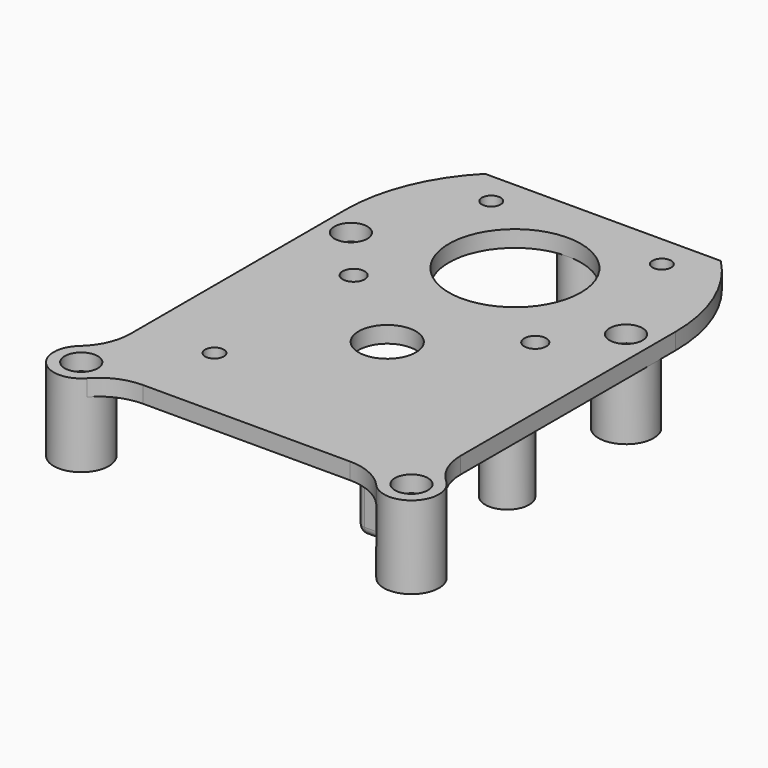
from build123d import *

# Parameters (mm, degrees)
CYLINDER054_R               = 3
CYLINDER054_DEPTH           = 3
CYLINDER053_R               = 3
CYLINDER053_DEPTH           = 3
CYLINDER052_R               = 3
CYLINDER052_DEPTH           = 3
CYLINDER055_R               = 3
CYLINDER055_DEPTH           = 3
CYLINDER079_R               = 1.7
CYLINDER079_DEPTH           = 15
CYLINDER078_R               = 1.7
CYLINDER078_DEPTH           = 15
CYLINDER_R                  = 1.7
CYLINDER_DEPTH              = 15
CYLINDER080_R               = 1.7
CYLINDER080_DEPTH           = 15
CYLINDER107_R               = 1.7
CYLINDER107_DEPTH           = 5
CYLINDER086_R               = 5.2
CYLINDER086_DEPTH           = 3
BOX014_W                    = 44
BOX014_H                    = 10
BOX014_DEPTH                = 3
CYLINDER012_R               = 12
CYLINDER012_DEPTH           = 3
CYLINDER092_R               = 1.7
CYLINDER092_DEPTH           = 3
CYLINDER091_R               = 2
CYLINDER091_DEPTH           = 3
CYLINDER090_R               = 2
CYLINDER090_DEPTH           = 3
CYLINDER093_R               = 1.7
CYLINDER093_DEPTH           = 3
CYLINDER062_R               = 30
CYLINDER062_DEPTH           = 3
BOX018_W                    = 5
BOX018_H                    = 12
BOX018_DEPTH                = 14.5
FILLET011_R                 = 1.5
CYLINDER087_R               = 4
CYLINDER087_DEPTH           = 15
CYLINDER088_R               = 4
CYLINDER088_DEPTH           = 15
CYLINDER060_R               = 4
CYLINDER060_DEPTH           = 15
CYLINDER057_R               = 5
CYLINDER057_DEPTH           = 15
CYLINDER057_PLACEMENT_ANGLE = 215
CYLINDER056_R               = 5
CYLINDER056_DEPTH           = 15
CYLINDER056_PLACEMENT_ANGLE = -45
CYLINDER058_R               = 5
CYLINDER058_DEPTH           = 15
CYLINDER059_R               = 5
CYLINDER059_DEPTH           = 15
CYLINDER106_R               = 4
CYLINDER106_DEPTH           = 2
BOX008_W                    = 60
BOX008_H                    = 60
BOX008_DEPTH                = 3
FILLET014_R                 = 10


with BuildPart() as obj1:
    # Cylinder054 → Cylinder054 (new body)
    with BuildSketch(Plane(origin=(25, -5, 30), x_dir=(1, 0, 0), z_dir=(0, 0, 1))):
        Circle(CYLINDER054_R)
    extrude(amount=CYLINDER054_DEPTH)


with BuildPart() as obj2:
    # Cylinder053 → Cylinder053 (new body)
    with BuildSketch(Plane(origin=(-30, -60, 30), x_dir=(1, 0, 0), z_dir=(0, 0, 1))):
        Circle(CYLINDER053_R)
    extrude(amount=CYLINDER053_DEPTH)


with BuildPart() as obj3:
    # Cylinder052 → Cylinder052 (new body)
    with BuildSketch(Plane(origin=(30, -60, 30), x_dir=(1, 0, 0), z_dir=(0, 0, 1))):
        Circle(CYLINDER052_R)
    extrude(amount=CYLINDER052_DEPTH)


with BuildPart() as obj4:
    # Cylinder055 → Cylinder055 (new body)
    with BuildSketch(Plane(origin=(-25, -5, 30), x_dir=(1, 0, 0), z_dir=(0, 0, 1))):
        Circle(CYLINDER055_R)
    extrude(amount=CYLINDER055_DEPTH)

    # Fusion028: union obj1, obj2, obj3
    add(obj1.part)
    add(obj2.part)
    add(obj3.part)


with BuildPart() as obj5:
    # Cylinder079 → Cylinder079 (new body)
    with BuildSketch(Plane(origin=(25, -5, 18), x_dir=(1, 0, 0), z_dir=(0, 0, 1))):
        Circle(CYLINDER079_R)
    extrude(amount=CYLINDER079_DEPTH)


with BuildPart() as obj6:
    # Cylinder078 → Cylinder078 (new body)
    with BuildSketch(Plane(origin=(30, -60, 18), x_dir=(1, 0, 0), z_dir=(0, 0, 1))):
        Circle(CYLINDER078_R)
    extrude(amount=CYLINDER078_DEPTH)


with BuildPart() as obj7:
    # Cylinder → Cylinder (new body)
    with BuildSketch(Plane(origin=(-30, -60, 18), x_dir=(1, 0, 0), z_dir=(0, 0, 1))):
        Circle(CYLINDER_R)
    extrude(amount=CYLINDER_DEPTH)


with BuildPart() as obj8:
    # Cylinder080 → Cylinder080 (new body)
    with BuildSketch(Plane(origin=(-25, -5, 18), x_dir=(1, 0, 0), z_dir=(0, 0, 1))):
        Circle(CYLINDER080_R)
    extrude(amount=CYLINDER080_DEPTH)

    # Fusion027: union obj5, obj6, obj7
    add(obj5.part)
    add(obj6.part)
    add(obj7.part)


with BuildPart() as obj9:
    # Cone005 → Cone005 (revolve)
    with BuildSketch(Plane(origin=(-25, -32, 18), x_dir=(1, 0, 0), z_dir=(0, -1, 0))):
        Polygon((0, 0), (2.7, 0), (1.7, 5), (0, 5), align=None)
    revolve(axis=Axis((-25, -32, 18), (0, 0, 1)))


with BuildPart() as obj10:
    # Cone002 → Cone002 (revolve)
    with BuildSketch(Plane(origin=(0, 17, 18), x_dir=(1, 0, 0), z_dir=(0, -1, 0))):
        Polygon((0, 0), (2.7, 0), (1.7, 5), (0, 5), align=None)
    revolve(axis=Axis((0, 17, 18), (0, 0, 1)))


with BuildPart() as obj11:
    # Cone006 → Cone006 (revolve)
    with BuildSketch(Plane(origin=(25, -32, 18), x_dir=(1, 0, 0), z_dir=(0, -1, 0))):
        Polygon((0, 0), (2.7, 0), (1.7, 5), (0, 5), align=None)
    revolve(axis=Axis((25, -32, 18), (0, 0, 1)))

    # Fusion026: union obj9, obj10
    add(obj9.part)
    add(obj10.part)


with BuildPart() as obj12:
    # Cone011 → Cone011 (revolve)
    with BuildSketch(Plane(origin=(30, -60, 28.7), x_dir=(1, 0, 0), z_dir=(0, -1, 0))):
        Polygon((0, 0), (1.7, 0), (3, 1.3), (0, 1.3), align=None)
    revolve(axis=Axis((30, -60, 28.7), (0, 0, 1)))


with BuildPart() as obj13:
    # Cone010 → Cone010 (revolve)
    with BuildSketch(Plane(origin=(-30, -60, 28.7), x_dir=(1, 0, 0), z_dir=(0, -1, 0))):
        Polygon((0, 0), (1.7, 0), (3, 1.3), (0, 1.3), align=None)
    revolve(axis=Axis((-30, -60, 28.7), (0, 0, 1)))


with BuildPart() as obj14:
    # Cone009 → Cone009 (revolve)
    with BuildSketch(Plane(origin=(-25, -5, 28.7), x_dir=(1, 0, 0), z_dir=(0, -1, 0))):
        Polygon((0, 0), (1.7, 0), (3, 1.3), (0, 1.3), align=None)
    revolve(axis=Axis((-25, -5, 28.7), (0, 0, 1)))


with BuildPart() as obj15:
    # Cone008 → Cone008 (revolve)
    with BuildSketch(Plane(origin=(25, -5, 28.7), x_dir=(1, 0, 0), z_dir=(0, -1, 0))):
        Polygon((0, 0), (1.7, 0), (3, 1.3), (0, 1.3), align=None)
    revolve(axis=Axis((25, -5, 28.7), (0, 0, 1)))

    # Fusion031: union obj12, obj13, obj14
    add(obj12.part)
    add(obj13.part)
    add(obj14.part)


with BuildPart() as obj16:
    # Cylinder107 → Cylinder107 (new body)
    with BuildSketch(Plane(origin=(-17, -46, 28), x_dir=(1, 0, 0), z_dir=(0, 0, 1))):
        Circle(CYLINDER107_R)
    extrude(amount=CYLINDER107_DEPTH)


with BuildPart() as obj17:
    # Cylinder086 → Cylinder086 (new body)
    with BuildSketch(Plane(origin=(0, -28, 30), x_dir=(1, 0, 0), z_dir=(0, 0, 1))):
        Circle(CYLINDER086_R)
    extrude(amount=CYLINDER086_DEPTH)


with BuildPart() as obj18:
    # Box014 → Box014 (new body)
    with BuildSketch(Plane(origin=(-22, 21, 30), x_dir=(1, 0, 0), z_dir=(0, 0, 1))):
        with Locations((22, 5)):
            Rectangle(BOX014_W, BOX014_H)
    extrude(amount=BOX014_DEPTH)


with BuildPart() as obj19:
    # Cylinder012 → Cylinder012 (new body)
    with BuildSketch(Plane(origin=(0, 1, 30), x_dir=(1, 0, 0), z_dir=(0, 0, 1))):
        Circle(CYLINDER012_R)
    extrude(amount=CYLINDER012_DEPTH)


with BuildPart() as obj20:
    # Cylinder092 → Cylinder092 (new body)
    with BuildSketch(Plane(origin=(-15.5, 15, 30), x_dir=(1, 0, 0), z_dir=(0, 0, 1))):
        Circle(CYLINDER092_R)
    extrude(amount=CYLINDER092_DEPTH)


with BuildPart() as obj21:
    # Cylinder091 → Cylinder091 (new body)
    with BuildSketch(Plane(origin=(-16.5, -15, 30), x_dir=(1, 0, 0), z_dir=(0, 0, 1))):
        Circle(CYLINDER091_R)
    extrude(amount=CYLINDER091_DEPTH)


with BuildPart() as obj22:
    # Cylinder090 → Cylinder090 (new body)
    with BuildSketch(Plane(origin=(16.5, -15, 30), x_dir=(1, 0, 0), z_dir=(0, 0, 1))):
        Circle(CYLINDER090_R)
    extrude(amount=CYLINDER090_DEPTH)


with BuildPart() as obj23:
    # Cylinder093 → Cylinder093 (new body)
    with BuildSketch(Plane(origin=(15.5, 15, 30), x_dir=(1, 0, 0), z_dir=(0, 0, 1))):
        Circle(CYLINDER093_R)
    extrude(amount=CYLINDER093_DEPTH)

    # Fusion025: union obj20, obj21, obj22
    add(obj20.part)
    add(obj21.part)
    add(obj22.part)


with BuildPart() as cylinderbasetop:
    # Cylinder062 → Cylinder062 (new body)
    with BuildSketch(Plane.XY.offset(30)):
        Circle(CYLINDER062_R)
    extrude(amount=CYLINDER062_DEPTH)


with BuildPart() as slidingboxtop:
    # Box018 → Box018 (new body)
    with BuildSketch(Plane(origin=(16, -55, 18.5), x_dir=(1, 0, 0), z_dir=(0, 0, 1))):
        with Locations((2.5, 6)):
            Rectangle(BOX018_W, BOX018_H)
    extrude(amount=BOX018_DEPTH)

    # Fillet011
    fillet011_edges = [slidingboxtop.edges().sort_by_distance(p)[0] for p in [
        (16, -55, 25.75),
        (16, -43, 25.75),
        (16, -49, 18.5),
        (21, -55, 25.75),
        (21, -43, 25.75),
        (21, -49, 18.5),
        (18.5, -55, 18.5),
        (18.5, -43, 18.5),
    ]]
    fillet(fillet011_edges, radius=FILLET011_R)


with BuildPart() as cylinder114:
    # Cylinder087 → Cylinder087 (new body)
    with BuildSketch(Plane(origin=(25, -32, 18), x_dir=(1, 0, 0), z_dir=(0, 0, 1))):
        Circle(CYLINDER087_R)
    extrude(amount=CYLINDER087_DEPTH)


with BuildPart() as cylinder115:
    # Cylinder088 → Cylinder088 (new body)
    with BuildSketch(Plane(origin=(-25, -32, 18), x_dir=(1, 0, 0), z_dir=(0, 0, 1))):
        Circle(CYLINDER088_R)
    extrude(amount=CYLINDER088_DEPTH)


with BuildPart() as cylinderalignmentboltstop:
    # Cylinder060 → Cylinder060 (new body)
    with BuildSketch(Plane(origin=(0, 17, 18), x_dir=(1, 0, 0), z_dir=(0, 0, 1))):
        Circle(CYLINDER060_R)
    extrude(amount=CYLINDER060_DEPTH)

    # Fusion029: union Cylinder114, Cylinder115
    add(cylinder114.part)
    add(cylinder115.part)


with BuildPart() as cylinder049:
    # Cylinder057 → Cylinder057 (new body)
    with BuildSketch(Plane.XY):
        Circle(CYLINDER057_R)
    extrude(amount=CYLINDER057_DEPTH)


with BuildPart() as cylinder049_1:
    # Cylinder057 placement: moved
    add(cylinder049.part.moved(Location((-30, -60, 18))).rotate(Axis((-30, -60, 18), (0, 0, 1)), CYLINDER057_PLACEMENT_ANGLE))


with BuildPart() as cylinder048:
    # Cylinder056 → Cylinder056 (new body)
    with BuildSketch(Plane.XY):
        Circle(CYLINDER056_R)
    extrude(amount=CYLINDER056_DEPTH)


with BuildPart() as cylinder048_1:
    # Cylinder056 placement: moved
    add(cylinder048.part.moved(Location((30, -60, 18))).rotate(Axis((30, -60, 18), (0, 0, 1)), CYLINDER056_PLACEMENT_ANGLE))


with BuildPart() as cylinder050:
    # Cylinder058 → Cylinder058 (new body)
    with BuildSketch(Plane(origin=(25, -5, 18), x_dir=(1, 0, 0), z_dir=(0, 0, 1))):
        Circle(CYLINDER058_R)
    extrude(amount=CYLINDER058_DEPTH)


with BuildPart() as cylindernutstop:
    # Cylinder059 → Cylinder059 (new body)
    with BuildSketch(Plane(origin=(-25, -5, 18), x_dir=(1, 0, 0), z_dir=(0, 0, 1))):
        Circle(CYLINDER059_R)
    extrude(amount=CYLINDER059_DEPTH)

    # Fusion030: union Cylinder049, Cylinder048, Cylinder050
    add(cylinder049_1.part)
    add(cylinder048_1.part)
    add(cylinder050.part)


with BuildPart() as cylinderholderwashertop:
    # Cylinder106 → Cylinder106 (new body)
    with BuildSketch(Plane(origin=(-17, -46, 28), x_dir=(1, 0, 0), z_dir=(0, 0, 1))):
        Circle(CYLINDER106_R)
    extrude(amount=CYLINDER106_DEPTH)


with BuildPart() as extrudercasetop:
    # Box008 → Box008 (new body)
    with BuildSketch(Plane(origin=(-30, -60, 30), x_dir=(1, 0, 0), z_dir=(0, 0, 1))):
        with Locations((30, 30)):
            Rectangle(BOX008_W, BOX008_H)
    extrude(amount=BOX008_DEPTH)

    # Fusion037: union CylinderBaseTop, SlidingBoxTop, CylinderAlignmentBoltsTop, CylinderNutsTop, CylinderHolderWasherTop
    add(cylinderbasetop.part)
    add(slidingboxtop.part)
    add(cylinderalignmentboltstop.part)
    add(cylindernutstop.part)
    add(cylinderholderwashertop.part)

    # Cut073: cut obj23
    add(obj23.part, mode=Mode.SUBTRACT)

    # Cut074: cut obj19
    add(obj19.part, mode=Mode.SUBTRACT)

    # Cut075: cut obj18
    add(obj18.part, mode=Mode.SUBTRACT)

    # Cut076: cut obj17
    add(obj17.part, mode=Mode.SUBTRACT)

    # Cut077: cut obj16
    add(obj16.part, mode=Mode.SUBTRACT)

    # Cut078: cut obj15
    add(obj15.part, mode=Mode.SUBTRACT)

    # Cut079: cut obj11
    add(obj11.part, mode=Mode.SUBTRACT)

    # Cut080: cut obj8
    add(obj8.part, mode=Mode.SUBTRACT)

    # Cut081: cut obj4
    add(obj4.part, mode=Mode.SUBTRACT)

    # Fillet014
    fillet014_edges = [extrudercasetop.edges().sort_by_distance(p)[0] for p in [
        (30, -55, 31.5),
        (25, -60, 31.5),
        (-25, -60, 31.5),
        (-30, -55, 31.5),
    ]]
    fillet(fillet014_edges, radius=FILLET014_R)


solid = extrudercasetop.part
